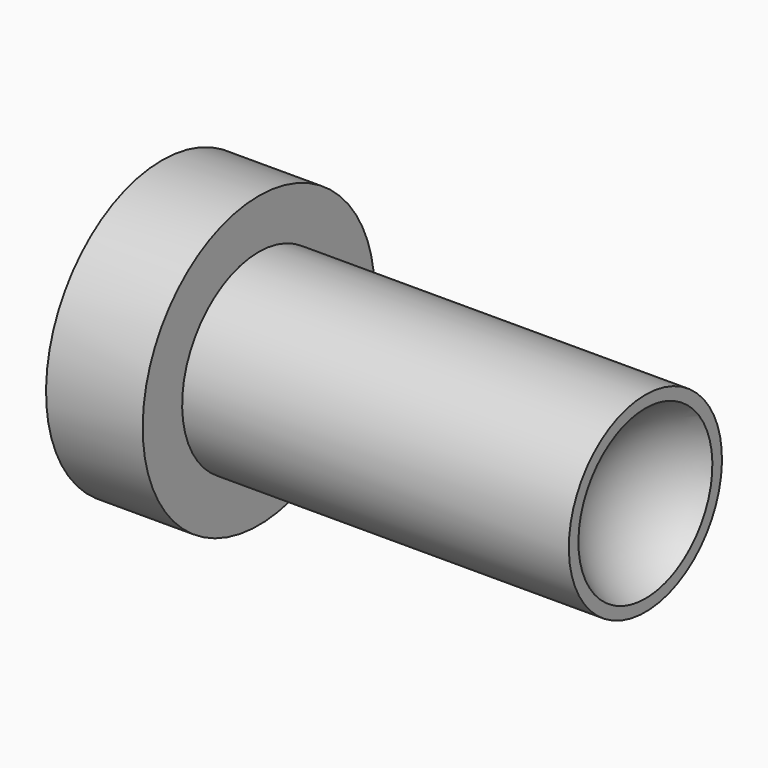
from build123d import *


with BuildPart() as f1:
    # F0 (on Front) → F1 (revolve)
    with BuildSketch(Plane.XZ):
        Polygon((-5, 0), (0, 0), (20, 0), (20, 4.95), (0, 4.95), (0, 7.5), (-5, 7.5), align=None)
    revolve(axis=Axis((4.550593, 0, 0), (1, 0, 0)))

    # F2 (on Front) → F3 (revolve, cut)
    with BuildSketch(Plane.XZ):
        with BuildLine():
            Line((22.5, 5), (22.5, -5))
            ThreePointArc((22.5, -5), (27.5, 0), (22.5, 5))
        make_face()
    revolve(axis=Axis((22.5, 0, -0.384427), (0, 0, -1)), mode=Mode.SUBTRACT)


solid = f1.part
